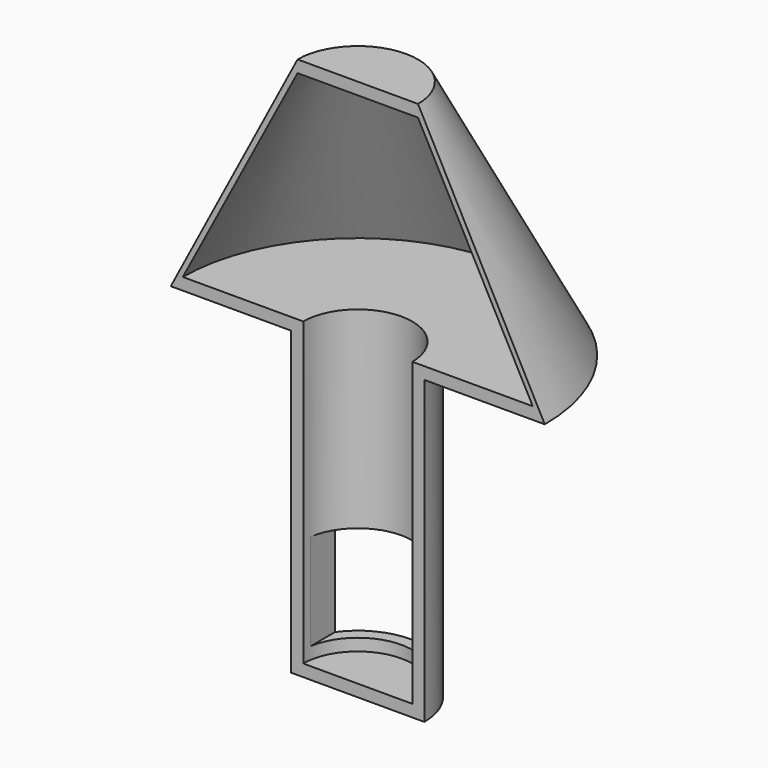
from build123d import *

# Parameters (mm, degrees)
F1_ANGLE = 180
F2_W     = 20
F2_H     = 20
F3_DEPTH = 25


with BuildPart() as f1:
    # F0 (on Right) → F1 (revolve, symmetric)
    with BuildSketch(Plane.YZ) as f1_sk:
        Polygon((0, -60), (0, -62.5), (13.814939, -62.5), (13.814939, 0), (38.814939, 0), (12.5, 50), (0, 50), (0, 47.5), (12.5, 47.5), (36.314939, 2.5), (11.314939, 2.5), (11.314939, -60), align=None)
    revolve(axis=Axis((0, 0, -61.25), (0, 0, 1)), revolution_arc=F1_ANGLE / 2)
    revolve(f1_sk.sketch, axis=Axis((0, 0, -61.25), (0, 0, -1)), revolution_arc=F1_ANGLE / 2)

    # F2 (on Front) → F3 (cut)
    with BuildSketch(Plane.XZ):
        with Locations((-1.185061, -47.5)):
            Rectangle(F2_W, F2_H)
    extrude(amount=-F3_DEPTH, mode=Mode.SUBTRACT)


solid = f1.part
